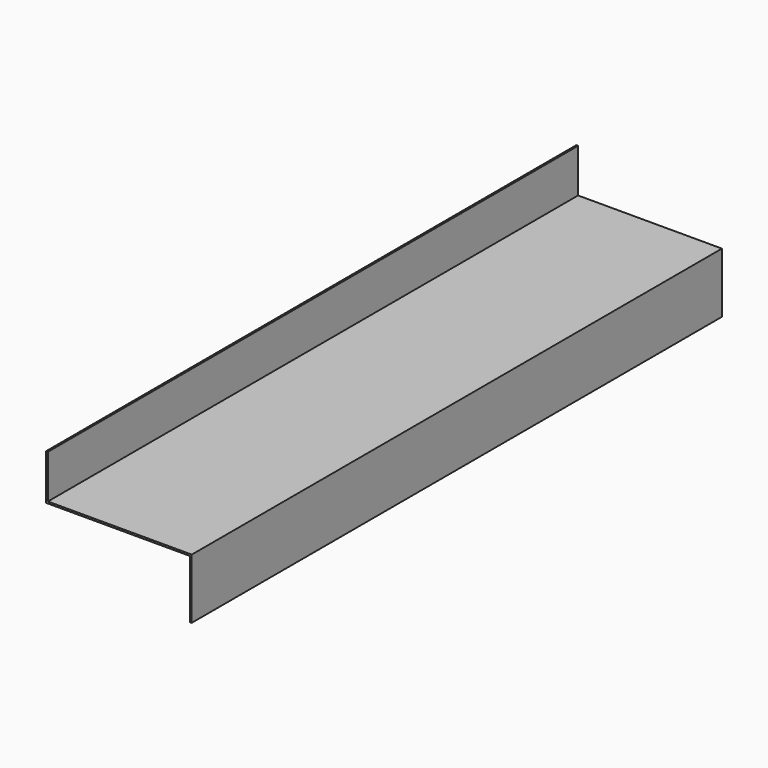
from build123d import *

# Parameters (mm, degrees)
F0_W     = 254
F0_H     = 1155.7
F1_DEPTH = 3.175
F2_W     = 3.175
F2_H     = 1155.7
F3_DEPTH = 76.2
F4_W     = 3.175
F4_H     = 1155.7
F5_DEPTH = 101.6


with BuildPart() as f1:
    # F0 (on Top) → F1 (new body)
    with BuildSketch(Plane.XY):
        with Locations((127, 577.85)):
            Rectangle(F0_W, F0_H)
    extrude(amount=F1_DEPTH)

    # F2 (on face) → F3 (join)
    with BuildSketch(Plane.XY.offset(3.175)):
        with Locations((1.5875, 577.85)):
            Rectangle(F2_W, F2_H)
    extrude(amount=F3_DEPTH)

    # F4 (on face) → F5 (join)
    with BuildSketch(Plane(origin=(0, 0, 0), x_dir=(1, 0, 0), z_dir=(0, 0, -1))):
        with Locations((252.4125, -577.85)):
            Rectangle(F4_W, F4_H)
    extrude(amount=F5_DEPTH)


solid = f1.part
